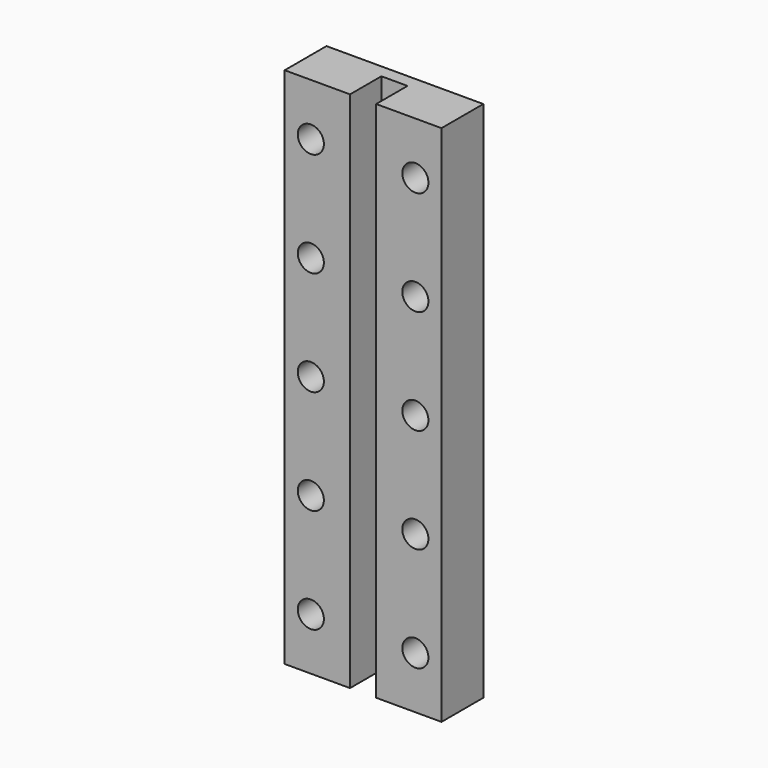
from build123d import *

# Parameters (mm, degrees)
F1_DEPTH = 80
F2_R     = 2
F3_DEPTH = 25


with BuildPart() as f1:
    # F0 (on Top) → F1 (new body)
    with BuildSketch(Plane.XY):
        Polygon((12, -4), (12, 4), (-12, 4), (-12, -4), (-2, -4), (-2, 2), (2, 2), (2, -4), align=None)
    extrude(amount=F1_DEPTH)

    # F2 (on face) → F3 (cut)
    with BuildSketch(Plane(origin=(0, 4, 0), x_dir=(-1, 0, 0), z_dir=(0, 1, 0))):
        with Locations((-8, 8)):
            Circle(F2_R)
        with Locations((-8, 24)):
            Circle(F2_R)
        with Locations((-8, 40)):
            Circle(F2_R)
        with Locations((-8, 56)):
            Circle(F2_R)
        with Locations((-8, 72)):
            Circle(F2_R)
        with Locations((8, 8)):
            Circle(F2_R)
        with Locations((8, 24)):
            Circle(F2_R)
        with Locations((8, 40)):
            Circle(F2_R)
        with Locations((8, 56)):
            Circle(F2_R)
        with Locations((8, 72)):
            Circle(F2_R)
        with Locations((-8, 88)):
            Circle(F2_R)
        with Locations((-8, 104)):
            Circle(F2_R)
        with Locations((-8, 120)):
            Circle(F2_R)
        with Locations((-8, 136)):
            Circle(F2_R)
        with Locations((-8, 152)):
            Circle(F2_R)
        with Locations((8, 88)):
            Circle(F2_R)
        with Locations((8, 104)):
            Circle(F2_R)
        with Locations((8, 120)):
            Circle(F2_R)
        with Locations((8, 136)):
            Circle(F2_R)
        with Locations((8, 152)):
            Circle(F2_R)
    extrude(amount=-F3_DEPTH, mode=Mode.SUBTRACT)


solid = f1.part
